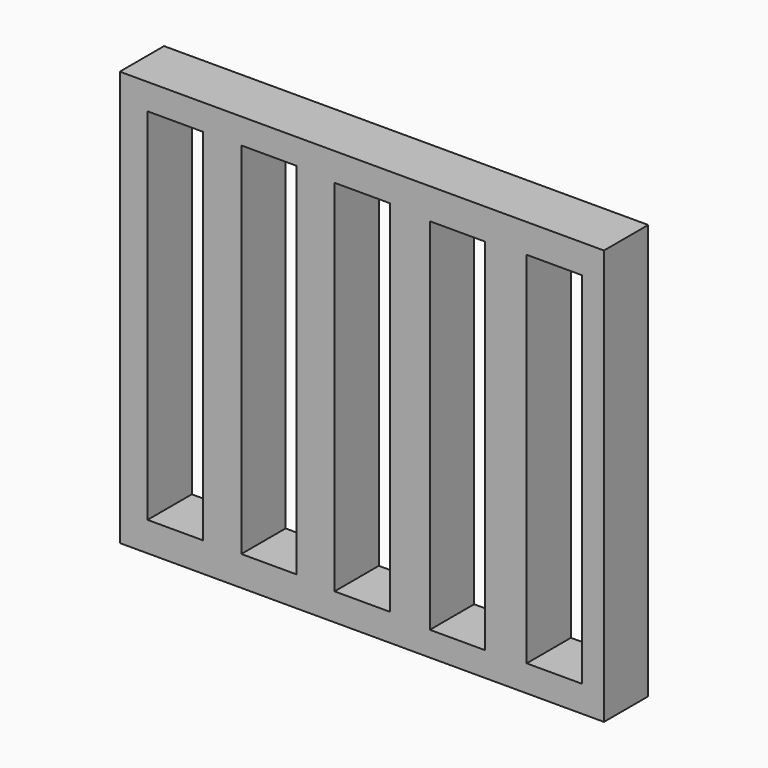
from build123d import *

# Parameters (mm, degrees)
F0_W     = 44.45
F0_H     = 38.1
F1_DEPTH = 5.08
F2_W     = 5.08
F2_H     = 33.02
F3_DEPTH = 25.4


with BuildPart() as f1:
    # F0 (on Front) → F1 (new body)
    with BuildSketch(Plane.XZ):
        with Locations((2.50788, 19.05)):
            Rectangle(F0_W, F0_H)
    extrude(amount=F1_DEPTH)

    # F2 (on face) → F3 (cut)
    with BuildSketch(Plane.XZ.offset(5.08)):
        with Locations((-14.627531, 19.213625)):
            Rectangle(F2_W, F2_H)
        with Locations((-6.018652, 19.255168)):
            Rectangle(F2_W, F2_H)
        with Locations((2.54, 19.018892)):
            Rectangle(F2_W, F2_H)
        with Locations((11.292174, 18.758736)):
            Rectangle(F2_W, F2_H)
        with Locations((20.175647, 18.936533)):
            Rectangle(F2_W, F2_H)
    extrude(amount=-F3_DEPTH, mode=Mode.SUBTRACT)


solid = f1.part
